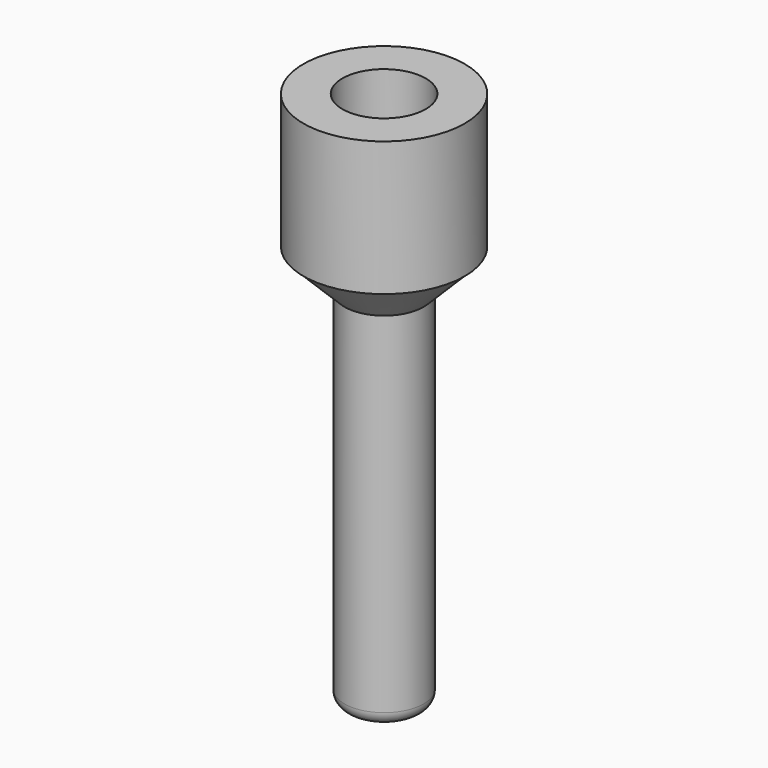
from build123d import *

# Parameters (mm, degrees)
CYLINDER_R     = 1.49
CYLINDER_DEPTH = 20
SKETCH_R       = 6
PAD_DEPTH      = 10
SKETCH001_R    = 3.1
POCKET_DEPTH   = 7.5
SKETCH002_R    = 2.95
PAD001_DEPTH   = 30
FILLET_R       = 1
CHAMFER_SIZE   = 3


with BuildPart() as cilindro:
    # Cylinder → Cylinder (new body)
    with BuildSketch(Plane(origin=(0, 0, 5.2), x_dir=(1, 0, 0), z_dir=(0, 1, 0))):
        Circle(CYLINDER_R)
    extrude(amount=CYLINDER_DEPTH)


with BuildPart() as cut:
    # Sketch → Pad (new body)
    with BuildSketch(Plane.XY):
        Circle(SKETCH_R)
    extrude(amount=PAD_DEPTH)

    # Sketch001 (on Face3 of Pad) → Pocket (cut)
    with BuildSketch(Plane.XY.offset(10)):
        Circle(SKETCH001_R)
    extrude(amount=-POCKET_DEPTH, mode=Mode.SUBTRACT)

    # Sketch002 (on Face2 of Pocket) → Pad001 (join)
    with BuildSketch(Plane(origin=(0, 0, 0), x_dir=(1, 0, 0), z_dir=(0, 0, -1))):
        Circle(SKETCH002_R)
    extrude(amount=PAD001_DEPTH)

    # Fillet
    fillet_edges = [cut.edges().sort_by_distance(p)[0] for p in [
        (-2.95, 0, -30),
    ]]
    fillet(fillet_edges, radius=FILLET_R)

    # Chamfer
    chamfer_edges = [cut.edges().sort_by_distance(p)[0] for p in [
        (-2.95, 0, 0),
    ]]
    chamfer(chamfer_edges, length=CHAMFER_SIZE)

    # Cut: cut Cilindro
    add(cilindro.part, mode=Mode.SUBTRACT)


solid = cut.part
